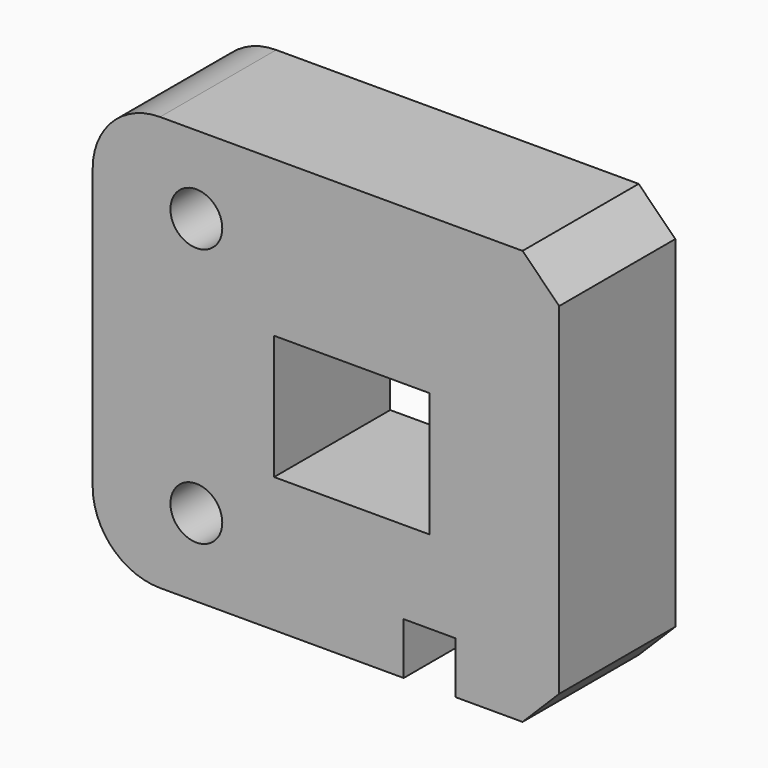
from build123d import *

# Parameters (mm, degrees)
F0_R     = 3.175
F0_W     = 19.05
F0_H     = 15.24
F1_DEPTH = 17.78


with BuildPart() as f1:
    # F0 (on Front) → F1 (new body)
    with BuildSketch(Plane.XZ):
        with BuildLine():
            Line((12.07617, 59.472699), (12.07617, 58.202699))
            Line((12.07617, 58.202699), (12.07617, 42.327699))
            Line((12.07617, 42.327699), (12.07617, 26.452699))
            Line((12.07617, 26.452699), (12.07617, 25.182699))
            ThreePointArc((12.07617, 25.182699), (14.494003, 19.345532), (20.33117, 16.927699))
            Line((20.33117, 16.927699), (50.17617, 16.927699))
            Line((50.17617, 16.927699), (50.17617, 23.277699))
            Line((50.17617, 23.277699), (56.52617, 23.277699))
            Line((56.52617, 23.277699), (56.52617, 16.927699))
            Line((56.52617, 16.927699), (64.736042, 16.927699))
            Line((64.736042, 16.927699), (69.22617, 21.417827))
            Line((69.22617, 21.417827), (69.22617, 63.237571))
            Line((69.22617, 63.237571), (64.736042, 67.727699))
            Line((64.736042, 67.727699), (20.33117, 67.727699))
            ThreePointArc((20.33117, 67.727699), (14.494003, 65.309865), (12.07617, 59.472699))
        make_face()
        with Locations((24.77617, 26.452699)):
            Circle(F0_R, mode=Mode.SUBTRACT)
        with Locations((43.82617, 41.057699)):
            Rectangle(F0_W, F0_H, mode=Mode.SUBTRACT)
        with Locations((24.77617, 58.202699)):
            Circle(F0_R, mode=Mode.SUBTRACT)
    extrude(amount=F1_DEPTH)


solid = f1.part
